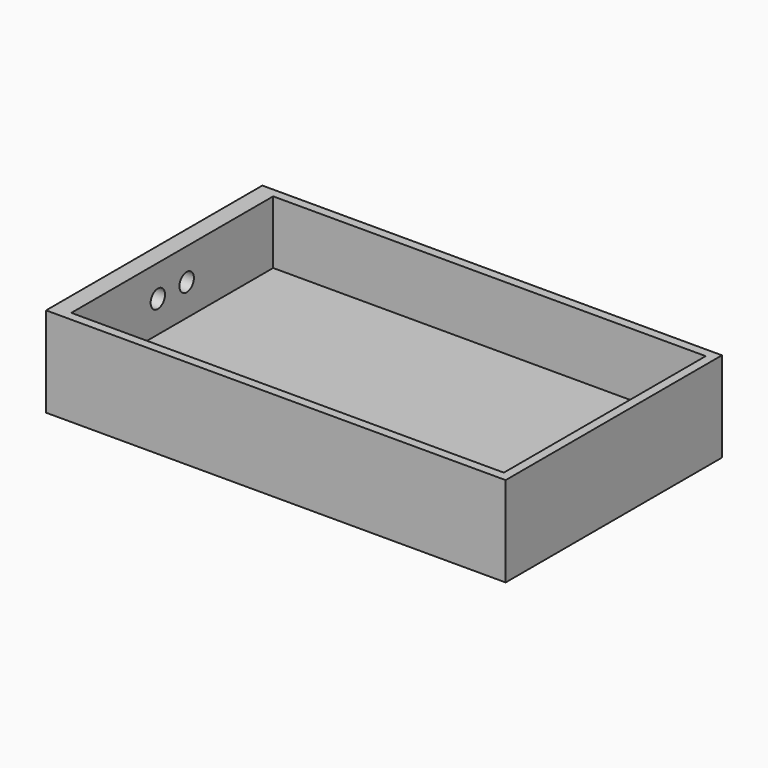
from build123d import *

# Parameters (mm, degrees)
F0_W     = 127.5
F0_H     = 75
F0_W_2   = 120
F0_H_2   = 70
F1_DEPTH = 25
F2_W     = 120
F2_H     = 7.5
F3_DEPTH = 70
F4_R     = 2.5
F5_DEPTH = 25


with BuildPart() as f1:
    # F0 (on Top) → F1 (new body)
    with BuildSketch(Plane.XY):
        with Locations((-107.463835, -102.613583)):
            Rectangle(F0_W, F0_H)
        with Locations((-106.213835, -102.613583)):
            Rectangle(F0_W_2, F0_H_2, mode=Mode.SUBTRACT)
    extrude(amount=F1_DEPTH)

    # F2 (on face) → F3 (join)
    with BuildSketch(Plane.XZ.offset(67.613583)):
        with Locations((-106.213835, 3.75)):
            Rectangle(F2_W, F2_H)
    extrude(amount=F3_DEPTH)

    # F4 (on face) → F5 (cut)
    with BuildSketch(Plane(origin=(-171.213835, 0, 0), x_dir=(0, -1, 0), z_dir=(-1, 0, 0))):
        with Locations((97.613583, 16.25)):
            Circle(F4_R)
        with Locations((107.613583, 16.25)):
            Circle(F4_R)
    extrude(amount=-F5_DEPTH, mode=Mode.SUBTRACT)


solid = f1.part
